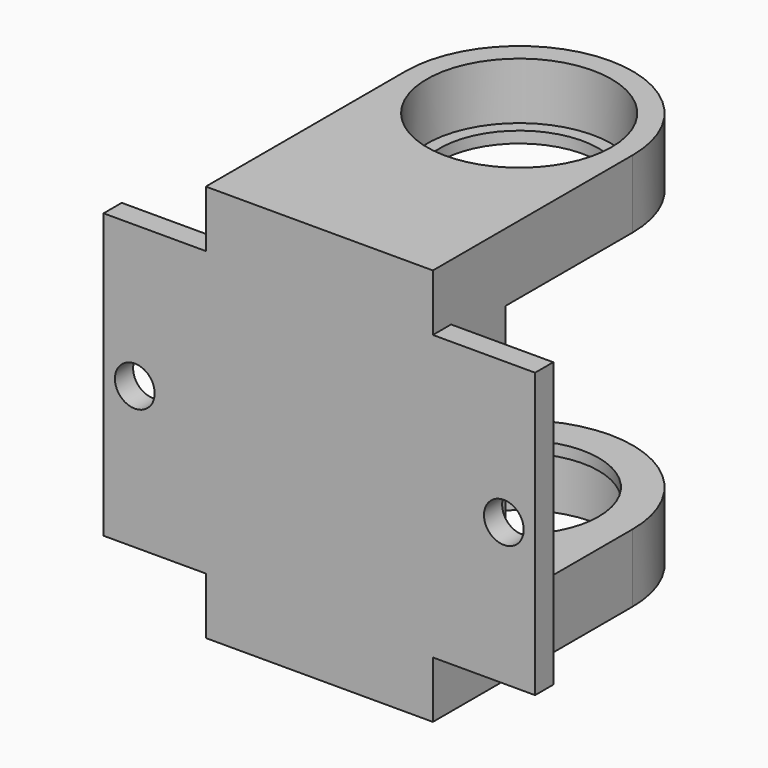
from build123d import *

# Parameters (mm, degrees)
SKETCH002_AS_DRAWN_W                 = 76
SKETCH002_AS_DRAWN_H                 = 50
SKETCH002_AS_DRAWN_R                 = 3.5
EXTRUDE003_DEPTH                     = 4
EXTRUDE003_ONTO_SKETCH002_ROLL_ANGLE = 90
CYLINDER_R                           = 16.25
CYLINDER_DEPTH                       = 10
SKETCH_R                             = 14
EXTRUDE001_DEPTH                     = 12
CYLINDER001_R                        = 16.25
CYLINDER001_DEPTH                    = 10
EXTRUDE_DEPTH                        = 12
SKETCH001_AS_DRAWN_W                 = 40
SKETCH001_AS_DRAWN_H                 = 70
EXTRUDE002_DEPTH                     = 16
EXTRUDE002_ONTO_SKETCH001_ROLL_ANGLE = 90


with BuildPart() as extrude003:
    # Sketch002 as drawn → Extrude003 (new)
    with BuildSketch(Plane.XY):
        Rectangle(SKETCH002_AS_DRAWN_W, SKETCH002_AS_DRAWN_H)
        with Locations((-32.5, 0)):
            Circle(SKETCH002_AS_DRAWN_R, mode=Mode.SUBTRACT)
        with Locations((32.5, 0)):
            Circle(SKETCH002_AS_DRAWN_R, mode=Mode.SUBTRACT)
    extrude(amount=-EXTRUDE003_DEPTH)


with BuildPart() as extrude003_1:
    # Extrude003 onto Sketch002 roll: moved
    add(extrude003.part.rotate(Axis((0, 0, 0), (1, 0, 0)), EXTRUDE003_ONTO_SKETCH002_ROLL_ANGLE))


with BuildPart() as extrude003_2:
    # Extrude003 onto Sketch002 placement: moved
    add(extrude003_1.part)


with BuildPart() as extrude003_3:
    # Extrude003 placement: moved
    add(extrude003_2.part.moved(Location((0, -44, 0))))


with BuildPart() as cylinder:
    # Cylinder → Cylinder (new body)
    with BuildSketch(Plane.XY):
        Circle(CYLINDER_R)
    extrude(amount=CYLINDER_DEPTH)


with BuildPart() as obj1:
    # Sketch → Extrude001 (new body)
    with BuildSketch(Plane.XY):
        with BuildLine():
            ThreePointArc((20, 0), (0, 20), (-20, 0))
            Line((-20, 0), (-20, -40))
            Line((-20, -40), (20, -40))
            Line((20, -40), (20, 0))
        make_face()
        Circle(SKETCH_R, mode=Mode.SUBTRACT)
    extrude(amount=EXTRUDE001_DEPTH)

    # Cut: cut Cylinder
    add(cylinder.part, mode=Mode.SUBTRACT)


with BuildPart() as obj1_1:
    # Cut placement: moved
    add(obj1.part.moved(Location((0, 0, -35))))


with BuildPart() as cylinder001:
    # Cylinder001 → Cylinder001 (new body)
    with BuildSketch(Plane.XY.offset(2)):
        Circle(CYLINDER001_R)
    extrude(amount=CYLINDER001_DEPTH)


with BuildPart() as bearing_nest_r_cut:
    # Sketch → Extrude (new body)
    with BuildSketch(Plane.XY):
        with BuildLine():
            ThreePointArc((20, 0), (0, 20), (-20, 0))
            Line((-20, 0), (-20, -40))
            Line((-20, -40), (20, -40))
            Line((20, -40), (20, 0))
        make_face()
        Circle(SKETCH_R, mode=Mode.SUBTRACT)
    extrude(amount=EXTRUDE_DEPTH)

    # Cut001: cut Cylinder001
    add(cylinder001.part, mode=Mode.SUBTRACT)


with BuildPart() as bearing_nest_r_cut_1:
    # Cut001 placement: moved
    add(bearing_nest_r_cut.part.moved(Location((0, 0, 23))))


with BuildPart() as fusion:
    # Sketch001 as drawn → Extrude002 (new)
    with BuildSketch(Plane.XY):
        Rectangle(SKETCH001_AS_DRAWN_W, SKETCH001_AS_DRAWN_H)
    extrude(amount=-EXTRUDE002_DEPTH)


with BuildPart() as fusion_1:
    # Extrude002 onto Sketch001 roll: moved
    add(fusion.part.rotate(Axis((0, 0, 0), (1, 0, 0)), EXTRUDE002_ONTO_SKETCH001_ROLL_ANGLE))


with BuildPart() as fusion_2:
    # Extrude002 onto Sketch001 placement: moved
    add(fusion_1.part)


with BuildPart() as fusion_3:
    # Extrude002 placement: moved
    add(fusion_2.part.moved(Location((0, -44, 0))))

    # Fusion: union Extrude003, obj1, bearing-nest-r-cut
    add(extrude003_3.part)
    add(obj1_1.part)
    add(bearing_nest_r_cut_1.part)


solid = fusion_3.part
